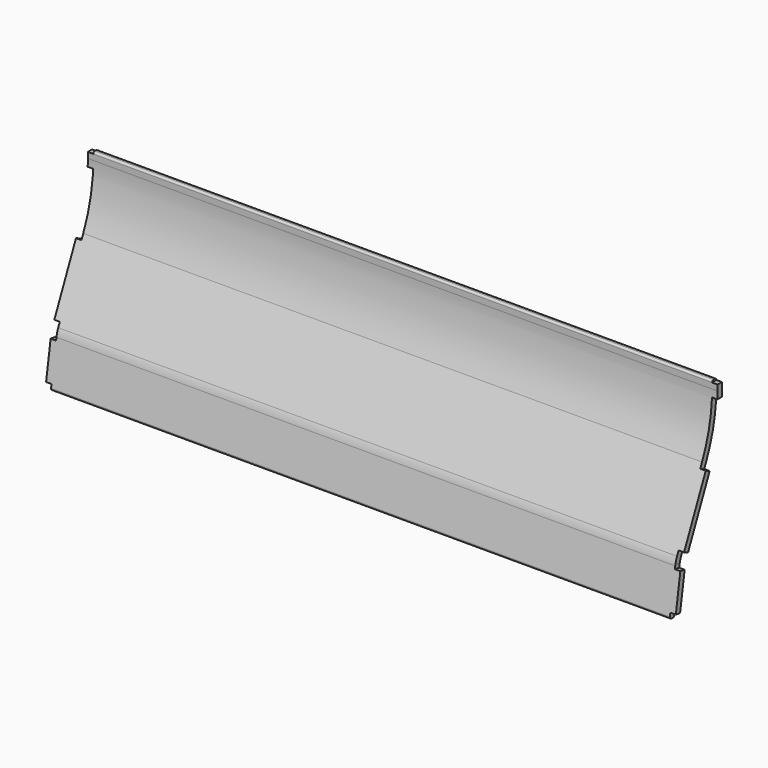
from build123d import *

# Parameters (mm, degrees)
F1_DEPTH      = 2080
F2_W          = 32.756647
F2_H          = 43.48932
F2_H_2        = 26.490313
F3_DEPTH      = 25
F4_W          = 44.810192
F4_H          = 34.606159
F4_H_2        = 187.662824
F5_DEPTH      = 88.72009
F5_DEPTH_BACK = 90.01171
F6_W          = 27.187791
F6_H          = 22.711933
F6_H_2        = 20.19423
F7_DEPTH      = 25
F8_DEPTH      = 29.81951


with BuildPart() as f1:
    # F0 (on Right) → F1 (new body)
    with BuildSketch(Plane.YZ):
        with BuildLine():
            Line((22.995866, 145.190186), (0.938607, 5.92613))
            ThreePointArc((0.938607, 5.92613), (2.010635, 1.460812), (5.92613, -0.938607))
            Line((5.92613, -0.938607), (11.85226, -1.877214))
            ThreePointArc((11.85226, -1.877214), (16.317578, -0.805186), (18.716997, 3.11031))
            Line((18.716997, 3.11031), (40.774256, 142.374366))
            ThreePointArc((40.774256, 142.374366), (43.141482, 152.835998), (46.853973, 162.899144))
            Line((46.853973, 162.899144), (150.16508, 394.939691))
            ThreePointArc((150.16508, 394.939691), (182.336947, 493.954517), (193.219442, 597.494539))
            Line((193.219442, 597.494539), (193.219442, 616.494539))
            ThreePointArc((193.219442, 616.494539), (191.462083, 620.737179), (187.219442, 622.494539))
            Line((187.219442, 622.494539), (181.219442, 622.494539))
            ThreePointArc((181.219442, 622.494539), (176.976802, 620.737179), (175.219442, 616.494539))
            Line((175.219442, 616.494539), (175.219442, 597.494539))
            ThreePointArc((175.219442, 597.494539), (164.730291, 497.696927), (133.721262, 402.26095))
            Line((133.721262, 402.26095), (30.410155, 170.220404))
            ThreePointArc((30.410155, 170.220404), (25.882727, 157.948274), (22.995866, 145.190186))
        make_face()
    extrude(amount=F1_DEPTH)

    # F2 (on face) → F3 (cut)
    with BuildSketch(Plane(origin=(0, 0, 0), x_dir=(1, 0, 0), z_dir=(0, -0.987688, 0.156434))):
        with Locations((1.621677, -3.971665)):
            Rectangle(F2_W, F2_H)
        with Locations((1.621677, 151.018151)):
            Rectangle(F2_W, F2_H_2)
        with Locations((2078.378324, 151.018151)):
            Rectangle(F2_W, F2_H_2)
        with Locations((2078.378324, -3.971665)):
            Rectangle(F2_W, F2_H)
    extrude(amount=-F3_DEPTH, mode=Mode.SUBTRACT)

    # F4 (on face) → F5 (cut, two sides)
    with BuildSketch(Plane(origin=(0, -37.869946, 16.860786), x_dir=(1, 0, 0), z_dir=(0, -0.913545, 0.406737))) as f5_sk:
        with Locations((-4.405096, 166.424588)):
            Rectangle(F4_W, F4_H)
        with Locations((-4.405096, 497.559079)):
            Rectangle(F4_W, F4_H_2)
        with Locations((2084.405096, 497.559079)):
            Rectangle(F4_W, F4_H_2)
        with Locations((2084.405096, 166.424588)):
            Rectangle(F4_W, F4_H)
    extrude(amount=F5_DEPTH, mode=Mode.SUBTRACT)
    extrude(f5_sk.sketch, amount=-F5_DEPTH_BACK, mode=Mode.SUBTRACT)

    # F6 (on face) → F7 (cut)
    with BuildSketch(Plane.XZ.offset(-175.219442)):
        with Locations((4.406105, 562.20141)):
            Rectangle(F6_W, F6_H)
        with Locations((4.406105, 626.591654)):
            Rectangle(F6_W, F6_H_2)
        with Locations((2075.593896, 562.20141)):
            Rectangle(F6_W, F6_H)
        with Locations((2075.593896, 626.591654)):
            Rectangle(F6_W, F6_H_2)
    extrude(amount=-F7_DEPTH, mode=Mode.SUBTRACT)

    # F6 (on face) → F8 (cut)
    with BuildSketch(Plane.XZ.offset(-175.219442)):
        with Locations((4.406105, 562.20141)):
            Rectangle(F6_W, F6_H)
        with Locations((4.406105, 626.591654)):
            Rectangle(F6_W, F6_H_2)
        with Locations((2075.593896, 562.20141)):
            Rectangle(F6_W, F6_H)
        with Locations((2075.593896, 626.591654)):
            Rectangle(F6_W, F6_H_2)
    extrude(amount=F8_DEPTH, mode=Mode.SUBTRACT)


solid = f1.part
